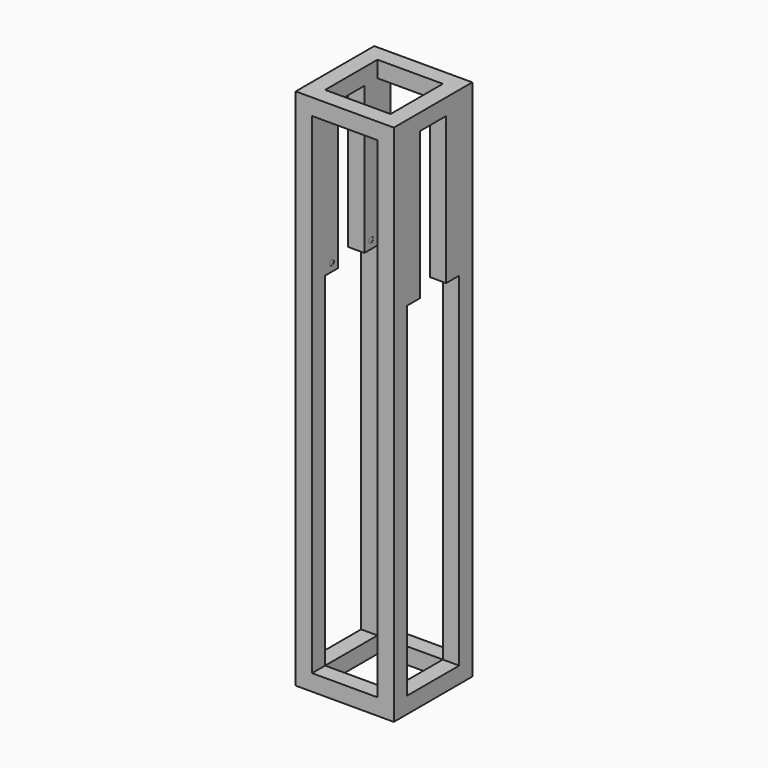
from build123d import *

# Parameters (mm, degrees)
F0_W      = 228.6
F0_H      = 228.6
F1_DEPTH  = 38.1
F2_W      = 152.4
F2_H      = 152.4
F3_DEPTH  = 38.1
F4_W      = 38.1
F4_H      = 38.1
F5_DEPTH  = 1143
F6_W      = 228.6
F6_H      = 228.6
F7_DEPTH  = 38.1
F8_W      = 152.4
F8_H      = 152.4
F9_DEPTH  = 38.1
F10_W     = 38.1
F10_H     = 38.1
F11_DEPTH = 342.9
F12_W     = 38.1
F12_H     = 38.1
F13_DEPTH = 342.9
F14_R     = 6.35
F15_DEPTH = 0.254
F16_R     = 6.35
F17_DEPTH = 0.254
F18_R     = 6.35
F19_DEPTH = 0.254


with BuildPart() as f1:
    # F0 (on Top) → F1 (new body)
    with BuildSketch(Plane.XY):
        Rectangle(F0_W, F0_H)
    extrude(amount=-F1_DEPTH)

    # F2 (on face) → F3 (cut)
    with BuildSketch(Plane.XY):
        Rectangle(F2_W, F2_H)
    extrude(amount=-F3_DEPTH, mode=Mode.SUBTRACT)

    # F4 (on face) → F5 (join)
    with BuildSketch(Plane.XY):
        with Locations((-95.25, 95.25)):
            Rectangle(F4_W, F4_H)
        with Locations((95.25, 95.25)):
            Rectangle(F4_W, F4_H)
        with Locations((95.25, -95.25)):
            Rectangle(F4_W, F4_H)
        with Locations((-95.25, -95.25)):
            Rectangle(F4_W, F4_H)
    extrude(amount=F5_DEPTH)

    # F6 (on face) → F7 (join)
    with BuildSketch(Plane.XY.offset(1143)):
        Rectangle(F6_W, F6_H)
    extrude(amount=F7_DEPTH)

    # F8 (on face) → F9 (cut)
    with BuildSketch(Plane.XY.offset(1181.1)):
        Rectangle(F8_W, F8_H)
    extrude(amount=-F9_DEPTH, mode=Mode.SUBTRACT)

    # F10 (on face) → F11 (join)
    with BuildSketch(Plane(origin=(0, 0, 1143), x_dir=(1, 0, 0), z_dir=(0, 0, -1))):
        with Locations((95.25, 57.15)):
            Rectangle(F10_W, F10_H)
        with Locations((95.25, -57.15)):
            Rectangle(F10_W, F10_H)
    extrude(amount=F11_DEPTH)

    # F12 (on face) → F13 (join)
    with BuildSketch(Plane(origin=(0, 0, 1143), x_dir=(1, 0, 0), z_dir=(0, 0, -1))):
        with Locations((-95.25, -57.15)):
            Rectangle(F12_W, F12_H)
        with Locations((-95.25, 57.15)):
            Rectangle(F12_W, F12_H)
    extrude(amount=F13_DEPTH)

    # F14 (on face) → F15 (join)
    with BuildSketch(Plane(origin=(-114.3, 0, 0), x_dir=(0, -1, 0), z_dir=(-1, 0, 0))):
        with Locations((-95.25, -19.05)):
            Circle(F14_R)
        with Locations((95.25, -19.05)):
            Circle(F14_R)
    extrude(amount=F15_DEPTH)

    # F16 (on face) → F17 (cut)
    with BuildSketch(Plane.YZ.offset(-76.2)):
        with Locations((-57.15, 819.15)):
            Circle(F16_R)
        with Locations((57.15, 819.15)):
            Circle(F16_R)
    extrude(amount=-F17_DEPTH, mode=Mode.SUBTRACT)

    # F18 (on face) → F19 (cut)
    with BuildSketch(Plane(origin=(76.2, 0, 0), x_dir=(0, -1, 0), z_dir=(-1, 0, 0))):
        with Locations((-57.15, 819.15)):
            Circle(F18_R)
        with Locations((57.15, 819.15)):
            Circle(F18_R)
    extrude(amount=-F19_DEPTH, mode=Mode.SUBTRACT)


solid = f1.part
